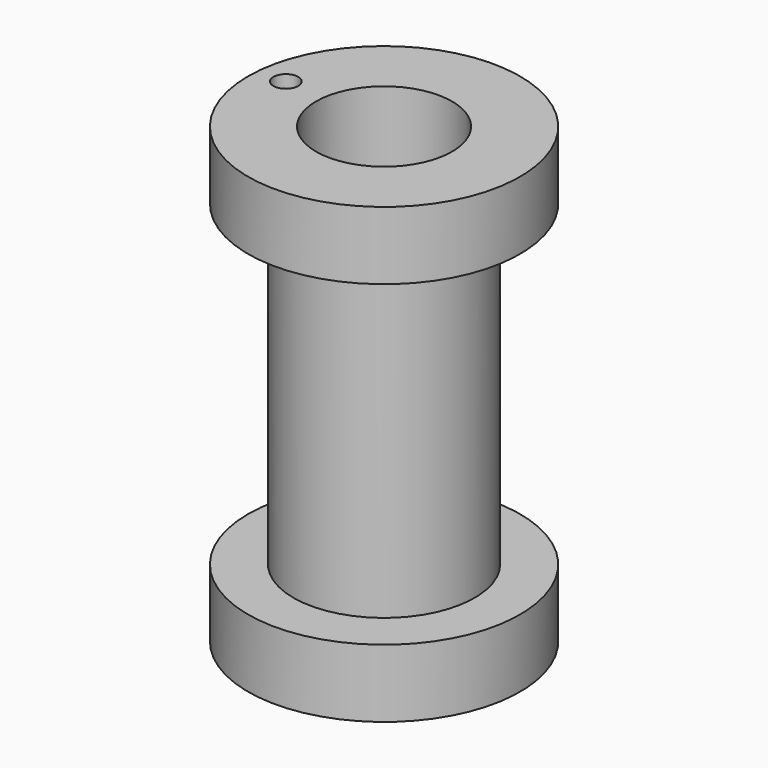
from build123d import *

# Parameters (mm, degrees)
F2_R     = 0.546903
F3_DEPTH = 20.1


with BuildPart() as f1:
    # F0 (on Front) → F1 (revolve)
    with BuildSketch(Plane.XZ):
        Polygon((-3, -4.415377), (-3, 15.584623), (-6, 15.584623), (-6, 12.584623), (-4, 12.584623), (-4, -1.415377), (-6, -1.415377), (-6, -4.415377), align=None)
    revolve(axis=Axis((0, 0, 1.64726), (0, 0, -1)))

    # F2 (on face) → F3 (cut, symmetric)
    with BuildSketch(Plane.XY.offset(-1.415377)):
        with Locations((-4.742678, 0.512132)):
            Circle(F2_R)
    extrude(amount=F3_DEPTH, both=True, mode=Mode.SUBTRACT)


solid = f1.part
